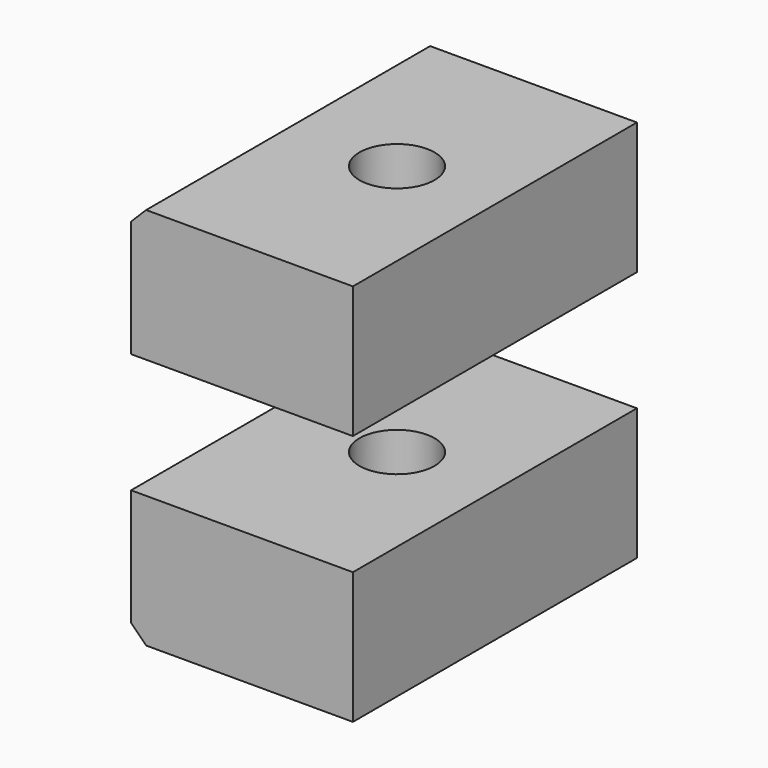
from build123d import *

# Parameters (mm, degrees)
F0_W     = 74.97561
F0_H     = 44.549288
F1_DEPTH = 120
F2_SIZE  = 5.08
F4_D     = 25.4


with BuildPart() as f1:
    # F0 (on Front) → F1 (new body)
    with BuildSketch(Plane.XZ):
        with Locations((-37.487805, 42.526632)):
            Rectangle(F0_W, F0_H)
    extrude(amount=F1_DEPTH)

    # F2
    f2_edges = [f1.edges().sort_by_distance(p)[0] for p in [
        (-74.97561, -60, 64.801276),
    ]]
    chamfer(f2_edges, length=F2_SIZE)

    # F4 (through all)
    with Locations(Plane(origin=(0, 0, 20.251988), x_dir=(1, 0, 0), z_dir=(0, 0, -1))):
        with Locations((-33.818021, 59.097089)):
            Hole(F4_D / 2)


with BuildPart() as f5_1:
    # F5: instance of F1
    add(f1.part.mirror(Plane.XY))


solid = Compound([f1.part, f5_1.part])
